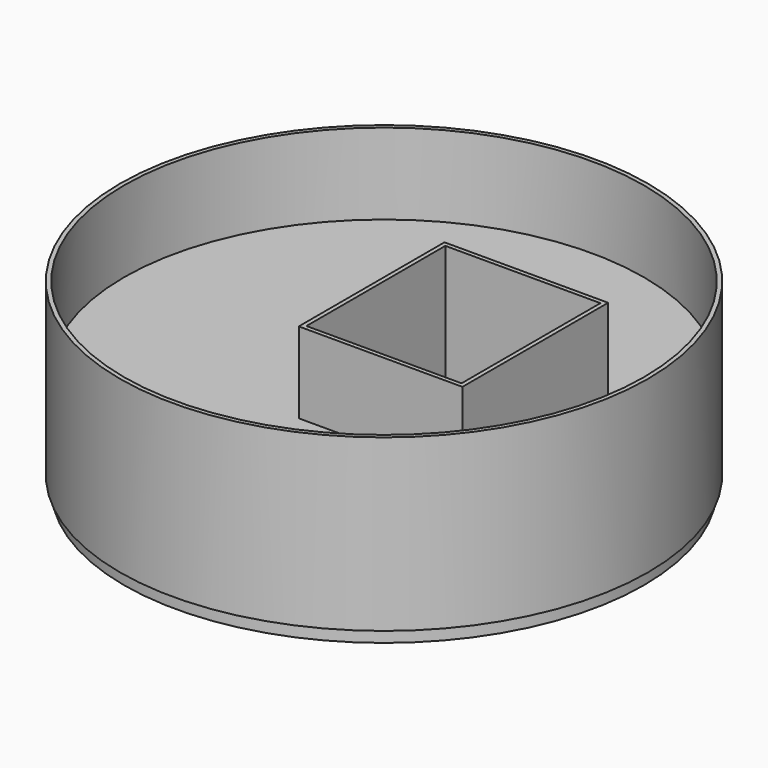
from build123d import *

# Parameters (mm, degrees)
F0_R     = 155.0189943433
F0_W     = 91.0461395979
F0_H     = 101.8910259008
F1_DEPTH = 50
F2_T     = -2.5
F3_DEPTH = 50
F4_DEPTH = 60


with BuildPart() as f1:
    # F0 (on Top) → F1 (new body)
    with BuildSketch(Plane.XY):
        Circle(F0_R)
        with Locations((45.5230697989, -5.9630684555)):
            Rectangle(F0_W, F0_H, mode=Mode.SUBTRACT)
    extrude(amount=F1_DEPTH)

    # F2
    f2_openings = [f1.faces().sort_by_distance(p)[0] for p in [
        (-6.37749, 0.835388, 50),
    ]]
    offset(amount=F2_T, openings=f2_openings, kind=Kind.INTERSECTION)

    # F0 (on Top) → F3 (join)
    with BuildSketch(Plane.XY):
        Circle(F0_R)
        with Locations((45.5230697989, -5.9630684555)):
            Rectangle(F0_W, F0_H, mode=Mode.SUBTRACT)
    extrude(amount=-F3_DEPTH)

    # F4 (add): a face of the model
    f4_faces = [f1.faces().sort_by_distance(p)[0] for p in [
        (-7.4404710718, 0.9746275578, 2.5),
    ]]
    extrude(f4_faces, amount=-F4_DEPTH)


solid = f1.part
